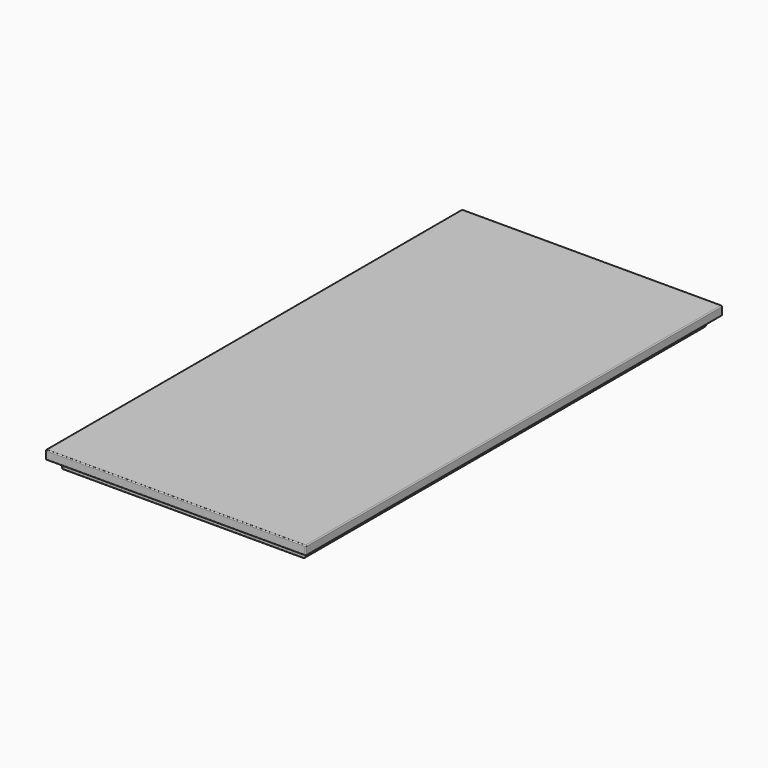
from build123d import *

# Parameters (mm, degrees)
F0_W     = 290
F0_H     = 580
F1_DEPTH = 10
F2_W     = 270
F2_H     = 560
F3_DEPTH = 10
F4_R     = 1


with BuildPart() as f1:
    # F0 (on Top) → F1 (new body)
    with BuildSketch(Plane.XY):
        with Locations((-39.619565, 4.486432)):
            Rectangle(F0_W, F0_H)
    extrude(amount=F1_DEPTH)

    # F2 (on face) → F3 (join)
    with BuildSketch(Plane(origin=(0, 0, 0), x_dir=(1, 0, 0), z_dir=(0, 0, -1))):
        with Locations((-39.619565, -4.486432)):
            Rectangle(F2_W, F2_H)
    extrude(amount=F3_DEPTH)

    # F4
    f4_edges = [f1.edges().sort_by_distance(p)[0] for p in [
        (95.380435, 4.486432, -10),
        (-39.619565, -275.513568, -10),
        (-174.619565, 4.486432, -10),
        (-39.619565, 284.486432, -10),
        (-184.619565, 4.486432, 0),
        (95.380435, -275.513568, -5),
        (-174.619565, -275.513568, -5),
        (-39.619565, -275.513568, 0),
        (95.380435, 284.486432, -5),
        (95.380435, 4.486432, 0),
        (105.380435, -285.513568, 5),
        (105.380435, 294.486432, 5),
        (105.380435, 4.486432, 0),
        (105.380435, 4.486432, 10),
        (-184.619565, -285.513568, 5),
        (-39.619565, -285.513568, 0),
        (-39.619565, -285.513568, 10),
        (-184.619565, 294.486432, 5),
        (-184.619565, 4.486432, 10),
        (-39.619565, 294.486432, 0),
        (-39.619565, 294.486432, 10),
        (-174.619565, 284.486432, -5),
        (-39.619565, 284.486432, 0),
        (-174.619565, 4.486432, 0),
    ]]
    fillet(f4_edges, radius=F4_R)


solid = f1.part
